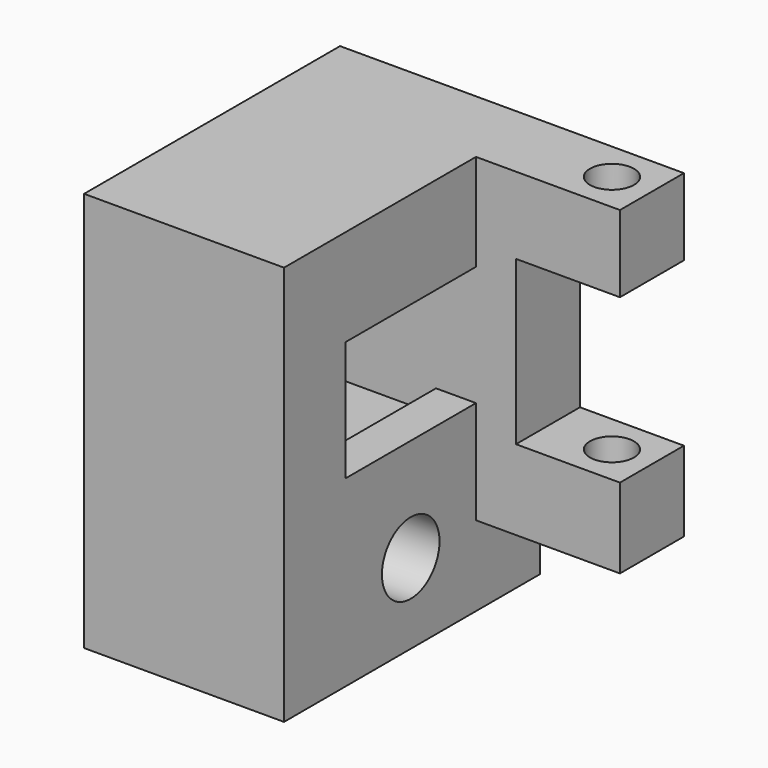
from build123d import *

# Parameters (mm, degrees)
PAD_DEPTH        = 50
SKETCH001_W      = 13
SKETCH001_H      = 20.4
SKETCH001_W_2    = 18
SKETCH001_H_2    = 10
POCKET_DEPTH     = 10.001
SKETCH002_W      = 20.4
SKETCH002_H      = 20.4
POCKET001_DEPTH  = 20
SKETCH003_W      = 20.4
SKETCH003_H      = 15
POCKET002_DEPTH  = 5
HOLE_D           = 5.5
HOLE_CBORE_D     = 9
HOLE_CBORE_DEPTH = 20
SKETCH005_R      = 2.75
HOLE001_DEPTH    = 50.001
CHAMFER_SIZE     = 1


with BuildPart() as part:
    # Sketch → Pad (new body)
    with BuildSketch(Plane.XY):
        Polygon((0, 0), (18, 0), (18, 10), (-25, 10), (-25, -30), (0, -30), align=None)
    extrude(amount=PAD_DEPTH)

    # Sketch001 → Pocket (cut, through all)
    with BuildSketch(Plane.XZ):
        with Locations((11.5, 30.2)):
            Rectangle(SKETCH001_W, SKETCH001_H)
        with Locations((9, 5)):
            Rectangle(SKETCH001_W_2, SKETCH001_H_2)
    extrude(amount=-POCKET_DEPTH, mode=Mode.SUBTRACT)

    # Sketch002 (on Face12 of Pocket) → Pocket001 (cut)
    with BuildSketch(Plane(origin=(-25, 0, 0), x_dir=(0, -1, 0), z_dir=(-1, 0, 0))):
        with Locations((10.2, 30.2)):
            Rectangle(SKETCH002_W, SKETCH002_H)
    extrude(amount=-POCKET001_DEPTH, mode=Mode.SUBTRACT)

    # Sketch003 → Pocket002 (cut)
    with BuildSketch(Plane.YZ):
        with Locations((-10.2, 30.4)):
            Rectangle(SKETCH003_W, SKETCH003_H)
    extrude(amount=-POCKET002_DEPTH, mode=Mode.SUBTRACT)

    # Hole (through all)
    with Locations(Plane.YZ):
        with Locations((-10.2, 10)):
            CounterBoreHole(HOLE_D / 2, HOLE_CBORE_D / 2, HOLE_CBORE_DEPTH)

    # Sketch005 → Hole001 (cut, through all)
    with BuildSketch(Plane.XY):
        with Locations((13, 5)):
            Circle(SKETCH005_R)
    extrude(amount=HOLE001_DEPTH, mode=Mode.SUBTRACT)

    # Chamfer
    chamfer_edges = [part.edges().sort_by_distance(p)[0] for p in [
        (-25, -10.2, 40.4),
        (-25, 0, 30.2),
        (-25, -10.2, 20),
        (-25, -20.4, 30.2),
    ]]
    chamfer(chamfer_edges, length=CHAMFER_SIZE)


solid = part.part
